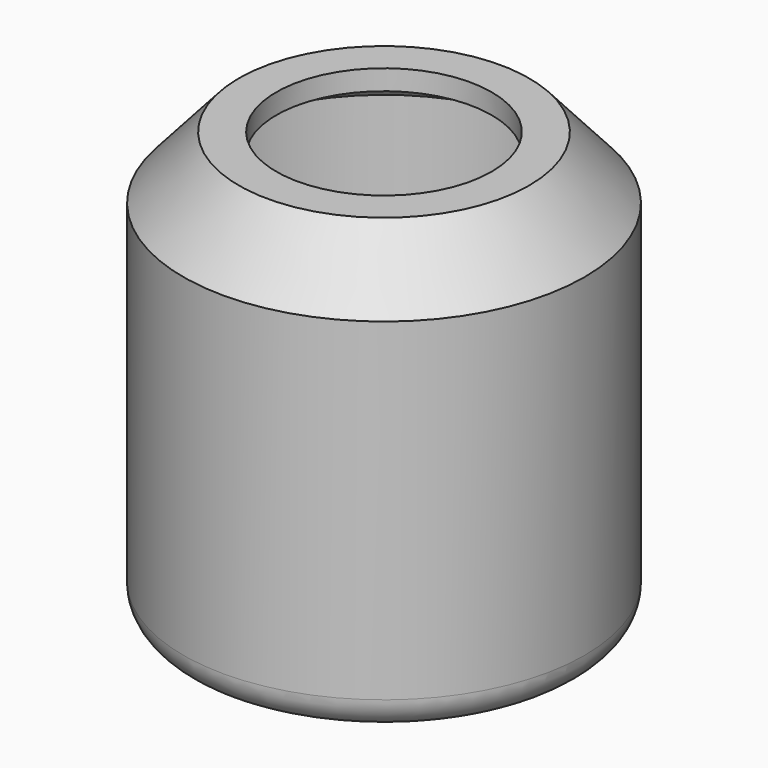
from build123d import *


with BuildPart() as f1:
    # F0 (on Front) → F1 (revolve)
    with BuildSketch(Plane.XZ):
        with BuildLine():
            Line((0, 3.541697), (0, 0))
            Line((0, 0), (21.348186, 0))
            Line((21.348186, 0), (28.781075, -8.254268))
            Line((28.781075, -8.254268), (33.428356, -8.254268))
            ThreePointArc((33.428356, -8.254268), (37.918484, -6.394396), (39.778356, -1.904268))
            Line((39.778356, -1.904268), (39.778356, 64.10753))
            Line((39.778356, 64.10753), (28.781075, 76.502554))
            Line((28.781075, 76.502554), (21.348186, 76.502554))
            Line((21.348186, 76.502554), (21.348186, 72.496518))
            Line((21.348186, 72.496518), (28.781075, 72.496518))
            Line((28.781075, 72.496518), (36.224067, 64.10753))
            Line((36.224067, 64.10753), (36.224067, -4.835905))
            Line((36.224067, -4.835905), (28.781075, -4.835905))
            Line((28.781075, -4.835905), (24.490498, 0))
            Line((24.490498, 0), (21.348186, 3.541697))
            Line((21.348186, 3.541697), (0, 3.541697))
        make_face()
    revolve(axis=Axis((0, 0, 34.186214), (0, 0, 1)))


solid = f1.part
